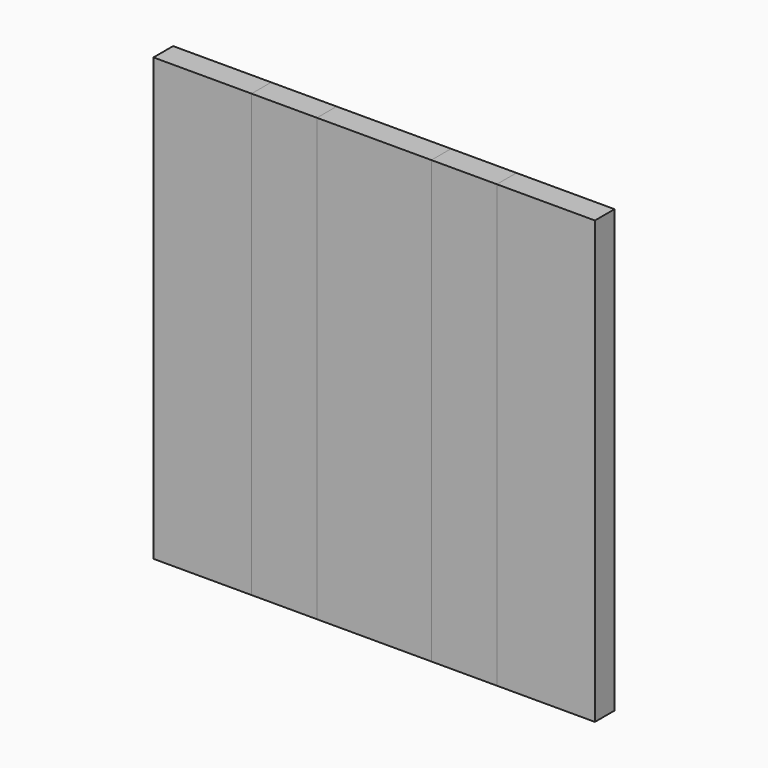
from build123d import *

# Parameters (mm, degrees)
F1_W     = 76.2
F1_H     = 342.9
F2_DEPTH = 19.05
F1_W_2   = 50.8
F3_DEPTH = 19.05
F1_W_3   = 88.9
F4_DEPTH = 19.05


with BuildPart() as f2:
    # F1 (on Front) → F2 (new body)
    with BuildSketch(Plane.XZ):
        with Locations((133.35, 0)):
            Rectangle(F1_W, F1_H)
        with Locations((-133.35, 0)):
            Rectangle(F1_W, F1_H)
    extrude(amount=F2_DEPTH)


with BuildPart() as f3:
    # F1 (on Front) → F3 (new body)
    with BuildSketch(Plane.XZ):
        with Locations((-69.85, 0)):
            Rectangle(F1_W_2, F1_H)
        with Locations((69.85, 0)):
            Rectangle(F1_W_2, F1_H)
    extrude(amount=F3_DEPTH)


with BuildPart() as f4:
    # F1 (on Front) → F4 (new body)
    with BuildSketch(Plane.XZ):
        Rectangle(F1_W_3, F1_H)
    extrude(amount=F4_DEPTH)


solid = Compound([f2.part, f3.part, f4.part])
